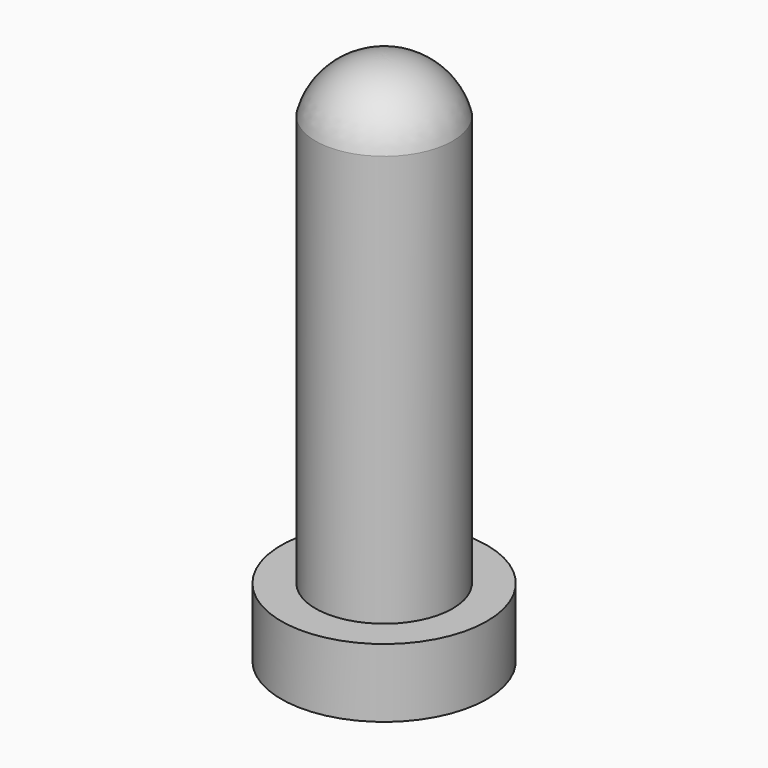
from build123d import *

# Parameters (mm, degrees)
F0_W = 2
F0_H = 12


with BuildPart() as f1:
    # F0 (on Front) → F1 (revolve)
    with BuildSketch(Plane.XZ):
        with BuildLine():
            Line((-1.5, 14.5), (-1.5, 13))
            Line((-1.5, 13), (0.5, 13))
            ThreePointArc((0.5, 13), (-0.23675, 14.101), (-1.5, 14.5))
        make_face()
        with Locations((-0.5, 7)):
            Rectangle(F0_W, F0_H)
        Polygon((-1.5, -1), (1.5, -1), (1.5, 1), (0.5, 1), (-1.5, 1), align=None)
    revolve(axis=Axis((-1.5, 0, 7), (0, 0, 1)))


solid = f1.part
